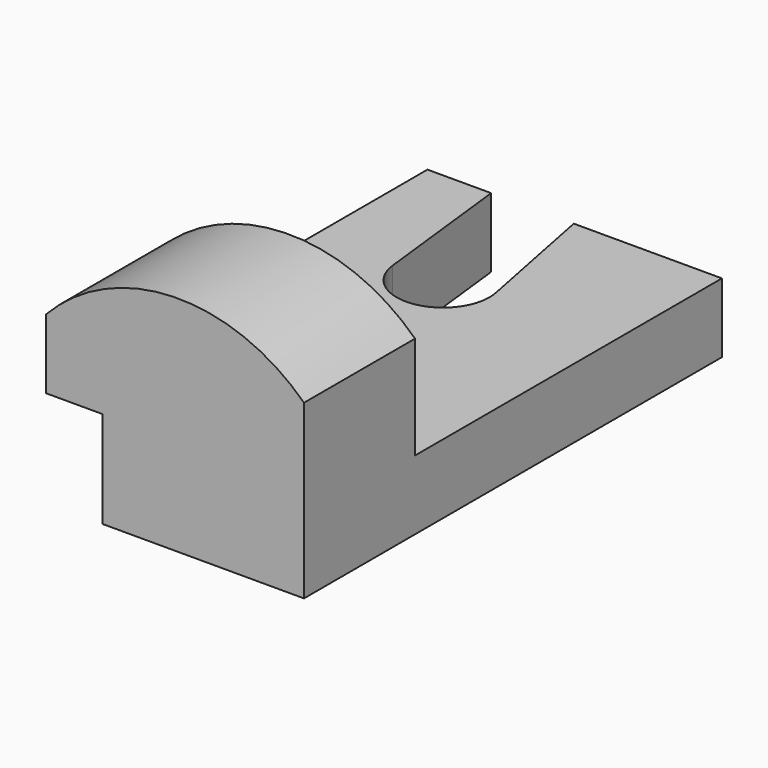
from build123d import *

# Parameters (mm, degrees)
F1_DEPTH = 25.4
F3_DEPTH = 12.7
F4_W     = 17.007686
F4_H     = 13.244051
F5_DEPTH = 25.4
F7_DEPTH = 25.4


with BuildPart() as f1:
    # F0 (on Front) → F1 (new body)
    with BuildSketch(Plane.XZ):
        with BuildLine():
            Line((-11.337823, 21.661693), (-11.337823, 35.488307))
            ThreePointArc((-11.337823, 35.488307), (-35.166102, 44.785234), (-58.532663, 34.382179))
            Line((-58.532663, 34.382179), (-58.532663, 21.661693))
            Line((-58.532663, 21.661693), (-48.20931, 21.661693))
            Line((-48.20931, 21.661693), (-48.20931, 3.963629))
            Line((-48.20931, 3.963629), (-11.337823, 3.963629))
            Line((-11.337823, 3.963629), (-11.337823, 21.661693))
        make_face()
    extrude(amount=F1_DEPTH)

    # F2 (on face) → F3 (join)
    with BuildSketch(Plane(origin=(0, 0, 3.963629), x_dir=(1, 0, 0), z_dir=(0, 0, -1))):
        Polygon((-11.337823, -70.18809), (-11.337823, 0), (-48.20931, 0), (-65.216996, 0), (-65.216996, -70.18809), align=None)
    extrude(amount=-F3_DEPTH)

    # F4 (on face) → F5 (cut)
    with BuildSketch(Plane.XY.offset(16.663629)):
        with Locations((-56.713153, 6.622025)):
            Rectangle(F4_W, F4_H)
    extrude(amount=-F5_DEPTH, mode=Mode.SUBTRACT)

    # F6 (on face) → F7 (cut)
    with BuildSketch(Plane.XY.offset(16.663629)):
        with BuildLine():
            Line((-53.567118, 70.18809), (-50.555244, 43.886501))
            ThreePointArc((-50.555244, 43.886501), (-40.800313, 36.453912), (-33.769552, 46.502318))
            Line((-33.769552, 46.502318), (-38.451883, 70.18809))
            Line((-38.451883, 70.18809), (-53.567118, 70.18809))
        make_face()
    extrude(amount=-F7_DEPTH, mode=Mode.SUBTRACT)


solid = f1.part
